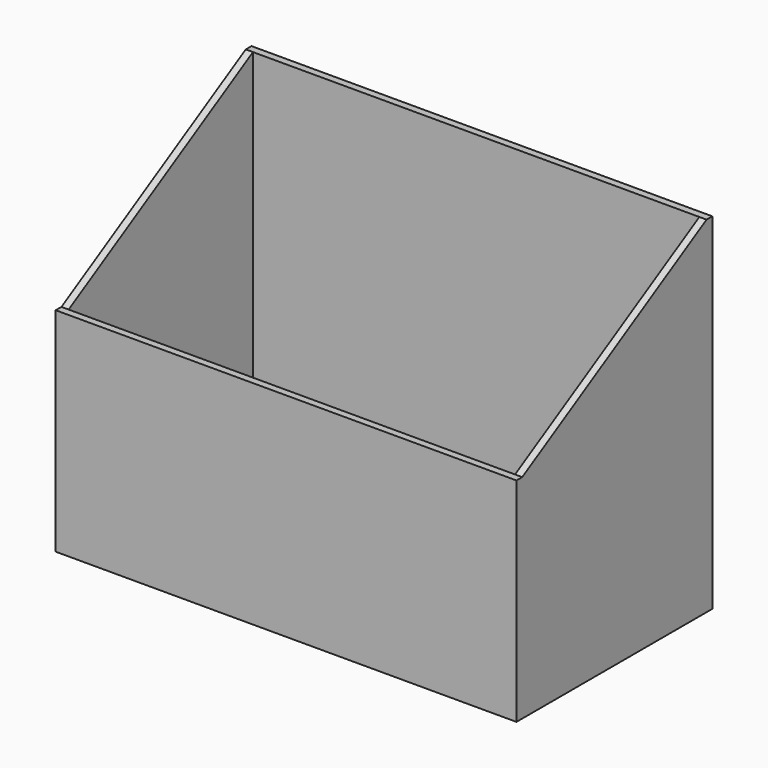
from build123d import *

# Parameters (mm, degrees)
F1_DEPTH = 609.6
F2_W     = 609.6
F2_H     = 1016
F3_DEPTH = 590.55


with BuildPart() as f1:
    # F0 (on Right) → F1 (new body, symmetric)
    with BuildSketch(Plane.YZ):
        Polygon((-647.7, 0), (0, 0), (0, 914.4), (-19.05, 914.4), (-628.65, 562.447276), (-647.7, 562.447276), align=None)
    extrude(amount=F1_DEPTH, both=True)

    # F2 (on Right) → F3 (cut, symmetric)
    with BuildSketch(Plane.YZ):
        with Locations((-323.85, 527.05)):
            Rectangle(F2_W, F2_H)
    extrude(amount=F3_DEPTH, both=True, mode=Mode.SUBTRACT)


solid = f1.part
